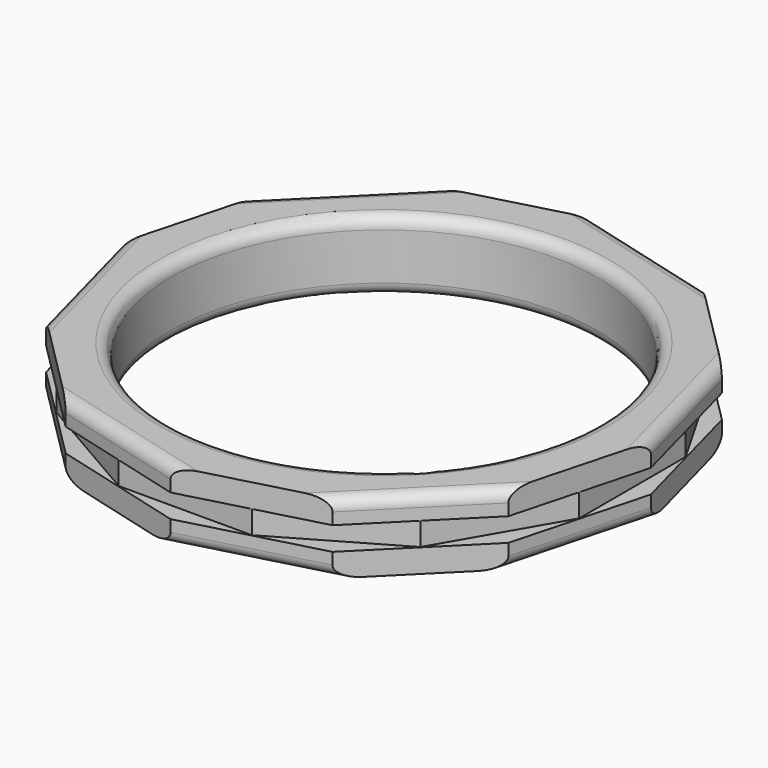
from build123d import *

# Parameters (mm, degrees)
F2_DEPTH = 0.5
F4_DEPTH = 1
F0_R     = 9.1
F6_DEPTH = 2.5
F7_R     = 0.5
F8_R     = 0.5


with BuildPart() as f2:
    # F1 (on Top) → F2 (new body, symmetric)
    with BuildSketch(Plane.XY):
        Polygon((-10.6, -2.8402614398), (-7.7597385602, -7.7597385602), (-2.8402614398, -10.6), (2.8402614398, -10.6), (7.7597385602, -7.7597385602), (10.6, -2.8402614398), (10.6, 2.8402614398), (7.7597385602, 7.7597385602), (2.8402614398, 10.6), (-2.8402614398, 10.6), (-7.7597385602, 7.7597385602), (-10.6, 2.8402614398), align=None)
    extrude(amount=F2_DEPTH, both=True)

    # F3 (on face) → F4 (join)
    with BuildSketch(Plane.XY.offset(0.5)):
        Polygon((-9.8623301938, 5.6940189923), (-11.3880379845, 0), (-9.8623301938, -5.6940189923), (-5.6940189923, -9.8623301938), (0, -11.3880379845), (5.6940189923, -9.8623301938), (9.8623301938, -5.6940189923), (11.3880379845, 0), (9.8623301938, 5.6940189923), (5.6940189923, 9.8623301938), (0, 11.3880379845), (-5.6940189923, 9.8623301938), align=None)
    extrude(amount=F4_DEPTH)

    # F5: F2 across plane


with BuildPart() as f2_1:
    add(f2.part)
    add(f2.part.mirror(Plane.XY))

    # F0 (on Top) → F6 (cut, symmetric)
    with BuildSketch(Plane.XY):
        Circle(F0_R)
    extrude(amount=F6_DEPTH, both=True, mode=Mode.SUBTRACT)

    # F7
    f7_edges = [f2_1.edges().sort_by_distance(p)[0] for p in [
        (-9.1, 0, -1.5),
        (9.1, 0, 0),
        (-9.1, 0, 1.5),
    ]]
    fillet(f7_edges, radius=F7_R)

    # F8
    f8_edges = [f2_1.edges().sort_by_distance(p)[0] for p in [
        (10.625184, -2.847009, -1.5),
        (7.778175, 7.778175, -1.5),
        (-2.847009, 10.625184, -1.5),
        (-10.625184, 2.847009, -1.5),
        (-7.778175, -7.778175, -1.5),
        (2.847009, -10.625184, -1.5),
        (-2.847009, -10.625184, 1.5),
        (7.778175, -7.778175, 1.5),
        (10.625184, 2.847009, 1.5),
        (2.847009, 10.625184, 1.5),
        (-7.778175, 7.778175, 1.5),
        (-10.625184, -2.847009, 1.5),
    ]]
    fillet(f8_edges, radius=F8_R)


solid = f2_1.part
